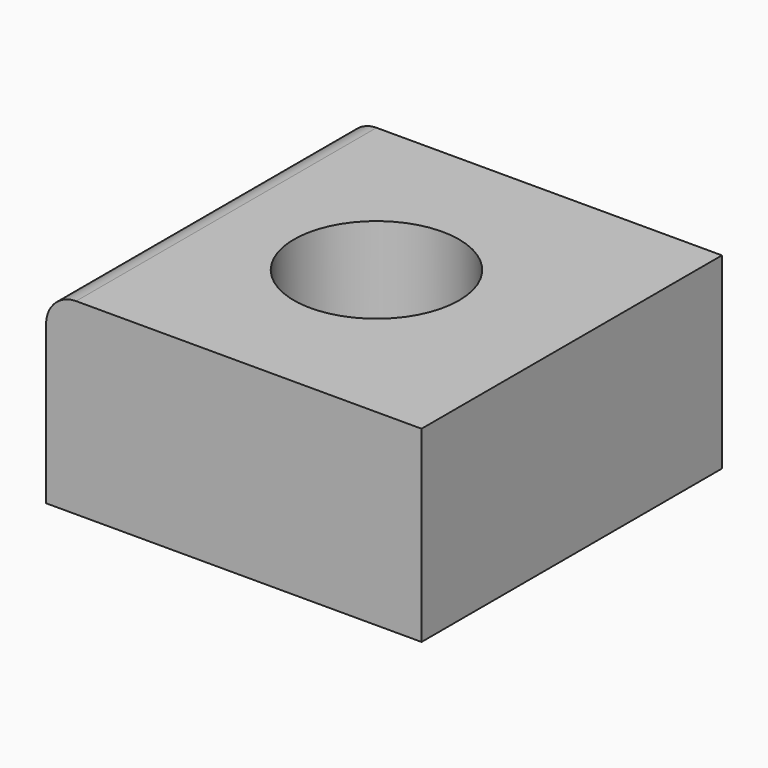
from build123d import *

# Parameters (mm, degrees)
F0_W     = 50
F0_H     = 25
F1_DEPTH = 25
F2_R     = 4
F3_R     = 11
F4_DEPTH = 25.001


with BuildPart() as f1:
    # F0 (on Front) → F1 (new body, symmetric)
    with BuildSketch(Plane.XZ):
        with Locations((1, -12.5)):
            Rectangle(F0_W, F0_H)
    extrude(amount=F1_DEPTH, both=True)

    # F2
    f2_edges = [f1.edges().sort_by_distance(p)[0] for p in [
        (-24, 0, 0),
    ]]
    fillet(f2_edges, radius=F2_R)

    # F3 (on face) → F4 (cut, through all)
    with BuildSketch(Plane.XY):
        Circle(F3_R)
    extrude(amount=-F4_DEPTH, mode=Mode.SUBTRACT)


solid = f1.part
